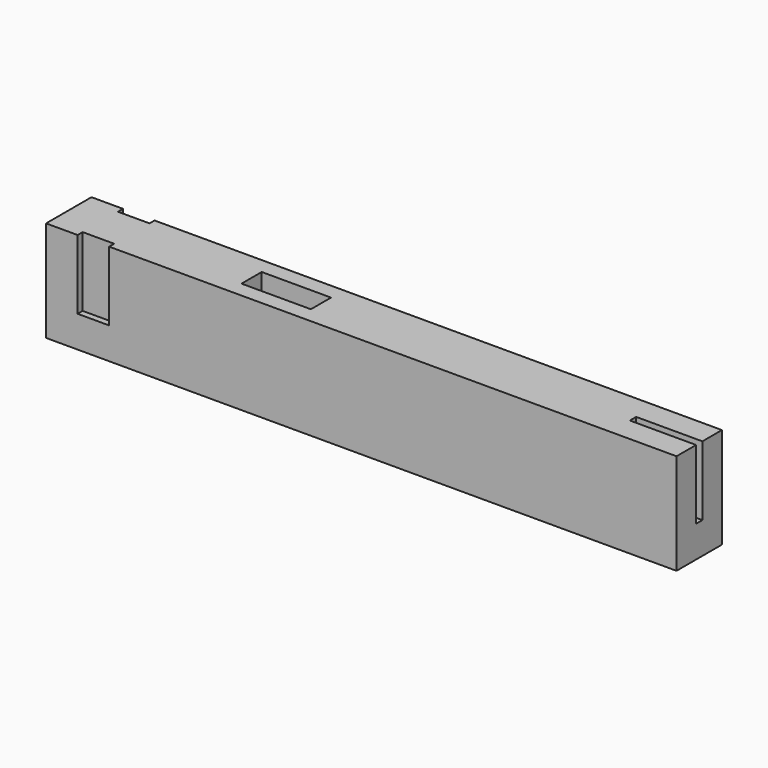
from build123d import *

# Parameters (mm, degrees)
SKETCH002_W  = 200
SKETCH002_H  = 18
PAD001_DEPTH = 10
PAD_DEPTH    = 22
SKETCH001_W  = 22
SKETCH001_H  = 8
POCKET_DEPTH = 6


with BuildPart() as base:
    # Sketch002 → Pad001 (new body)
    with BuildSketch(Plane.XY):
        Rectangle(SKETCH002_W, SKETCH002_H)
    extrude(amount=PAD001_DEPTH)


with BuildPart() as base_1:
    # Body001 placement: moved
    add(base.part.moved(Location((0, 0, -32))))


with BuildPart() as model_fusion:
    # Sketch → Pad (new body)
    with BuildSketch(Plane.XY):
        Polygon((-100, 9), (-90, 9), (-90, 7), (-80, 7), (-80, 9), (100, 9), (100, 1.25), (79, 1.25), (79, -1.25), (100, -1.25), (100, -9), (-80, -9), (-80, -7), (-90, -7), (-90, -9), (-100, -9), align=None)
    extrude(amount=PAD_DEPTH)

    # Sketch001 (on Face18 of Pad) → Pocket (cut)
    with BuildSketch(Plane.XY.offset(22)):
        with Locations((-31, 0)):
            Rectangle(SKETCH001_W, SKETCH001_H)
    extrude(amount=-POCKET_DEPTH, mode=Mode.SUBTRACT)


with BuildPart() as model_fusion_1:
    # Body placement: moved
    add(model_fusion.part.moved(Location((0, 0, -22))))

    # Fusion: union Base
    add(base_1.part)


solid = model_fusion_1.part
